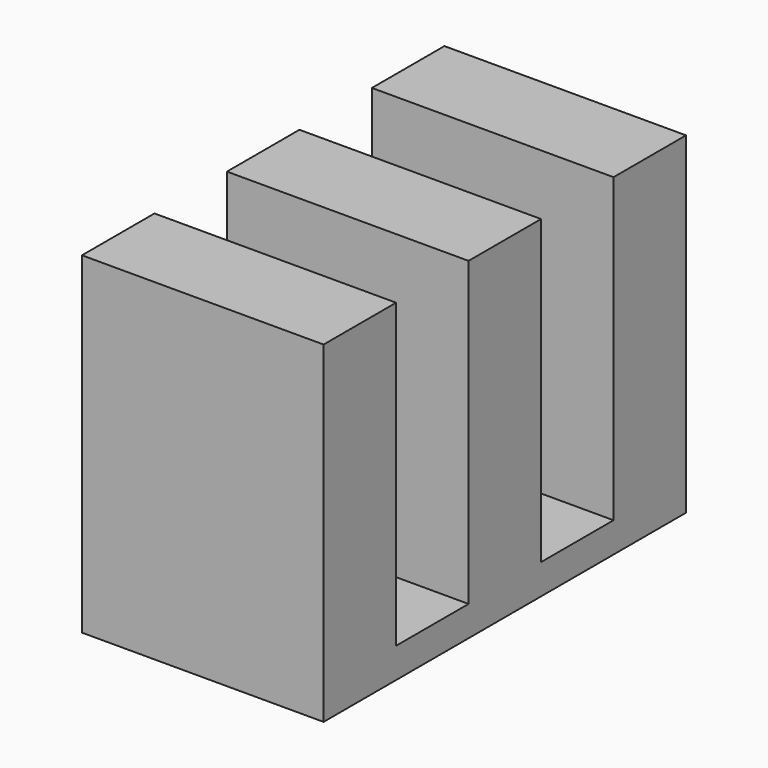
from build123d import *

# Parameters (mm, degrees)
F0_W     = 8
F0_H     = 3
F1_DEPTH = 1
F2_DEPTH = 11


with BuildPart() as f1:
    # F0 (on Top) → F1 (new body)
    with BuildSketch(Plane.XY):
        with Locations((0, 9.5)):
            Rectangle(F0_W, F0_H)
        with Locations((0, -2.5)):
            Rectangle(F0_W, F0_H)
        with Locations((0, 6.5)):
            Rectangle(F0_W, F0_H)
        with Locations((0, 3.5)):
            Rectangle(F0_W, F0_H)
        with Locations((0, 0.5)):
            Rectangle(F0_W, F0_H)
    extrude(amount=F1_DEPTH)

    # F0 (on Top) → F2 (join)
    with BuildSketch(Plane.XY):
        with Locations((0, -2.5)):
            Rectangle(F0_W, F0_H)
        with Locations((0, 9.5)):
            Rectangle(F0_W, F0_H)
        with Locations((0, 3.5)):
            Rectangle(F0_W, F0_H)
    extrude(amount=F2_DEPTH)


solid = f1.part
